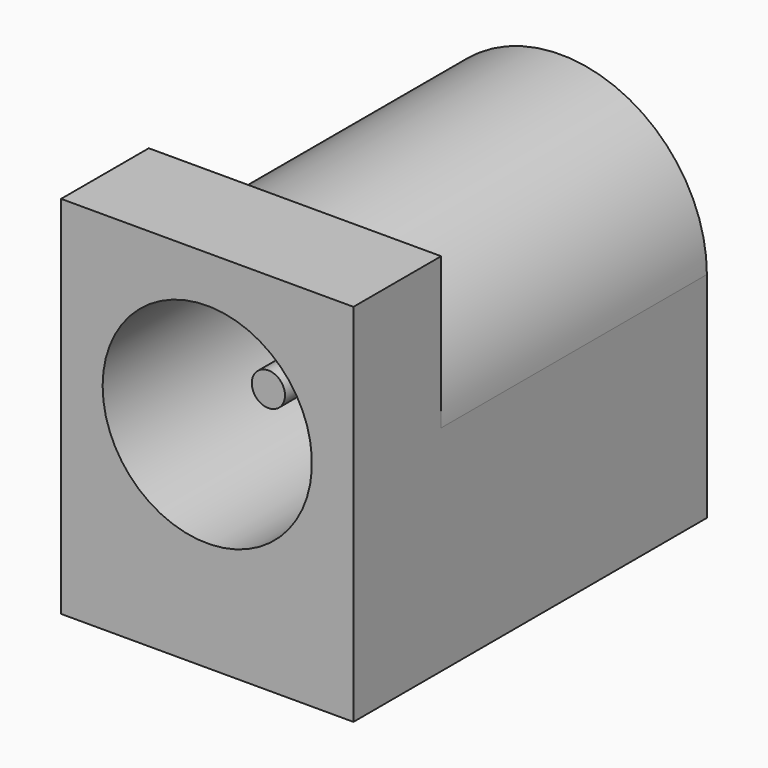
from build123d import *

# Parameters (mm, degrees)
SKETCH074_W  = 8.8
SKETCH074_H  = 11
SKETCH074_R  = 3.15
PAD098_DEPTH = 3.3
SKETCH072_R  = 3.15
PAD099_DEPTH = 9
PAD097_DEPTH = 1
SKETCH073_R  = 0.5
PAD096_DEPTH = 10


with BuildPart() as part:
    # Sketch074 → Pad098 (new body)
    with BuildSketch(Plane(origin=(0, -6.3, 0), x_dir=(-1, 0, 0), z_dir=(0, 1, 0))):
        with Locations((0, 5.5)):
            Rectangle(SKETCH074_W, SKETCH074_H)
        with Locations((0, 6.45)):
            Circle(SKETCH074_R, mode=Mode.SUBTRACT)
    extrude(amount=PAD098_DEPTH)

    # Sketch072 → Pad099 (join)
    with BuildSketch(Plane(origin=(0, -3, 0), x_dir=(-1, 0, 0), z_dir=(0, 1, 0))):
        with BuildLine():
            Line((4.4, 0), (-4.4, 0))
            Line((-4.4, 0), (-4.4, 6.45))
            ThreePointArc((4.4, 6.45), (0, 10.85), (-4.4, 6.45))
            Line((4.4, 6.45), (4.4, 0))
        make_face()
        with Locations((0, 6.45)):
            Circle(SKETCH072_R, mode=Mode.SUBTRACT)
    extrude(amount=PAD099_DEPTH)

    # Sketch075 → Pad097 (join)
    with BuildSketch(Plane(origin=(0, 6, 0), x_dir=(-1, 0, 0), z_dir=(0, 1, 0))):
        with BuildLine():
            Line((4.4, 0), (-4.4, 0))
            Line((-4.4, 0), (-4.4, 6.45))
            ThreePointArc((4.4, 6.45), (0, 10.85), (-4.4, 6.45))
            Line((4.4, 0), (4.4, 6.45))
        make_face()
    extrude(amount=PAD097_DEPTH)

    # Sketch073 → Pad096 (join)
    with BuildSketch(Plane(origin=(0, 6, 0), x_dir=(-1, 0, 0), z_dir=(0, 1, 0))):
        with Locations((0, 6.45)):
            Circle(SKETCH073_R)
    extrude(amount=-PAD096_DEPTH)


with BuildPart() as part_1:
    # Body015 placement: moved
    add(part.part.moved(Location((-2.8, -19.3, 0))))


solid = part_1.part
